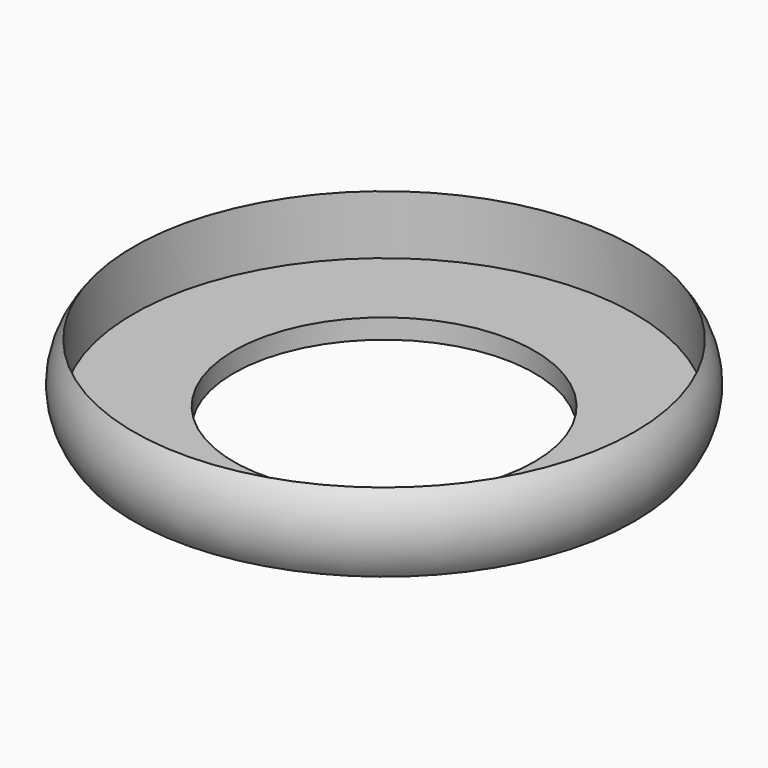
from build123d import *

# Parameters (mm, degrees)
F0_R     = 32.385
F0_R_2   = 31.623
F0_R_3   = 19.431
F4_DEPTH = 2.54


with BuildPart() as f3:
    # F3: sweep along a path in F0
    with BuildLine(Plane.XY) as f3_path:
        CenterArc((0, 0), 32.385, 0, 360)
    # F2 (on Right) → F3 (sweep)
    with BuildSketch(Plane.YZ):
        with BuildLine():
            ThreePointArc((-32.385, 10.16), (-34.133186, 5.08), (-32.385, 0))
            Line((-32.385, 0), (-32.385, 10.16))
        make_face()
    sweep(path=f3_path.line)


with BuildPart() as f4:
    # F0 (on Top) → F4 (new body)
    with BuildSketch(Plane.XY):
        Circle(F0_R)
        Circle(F0_R_2, mode=Mode.SUBTRACT)
        Circle(F0_R_2)
        Circle(F0_R_3, mode=Mode.SUBTRACT)
    extrude(amount=F4_DEPTH)


solid = Compound([f3.part, f4.part])
